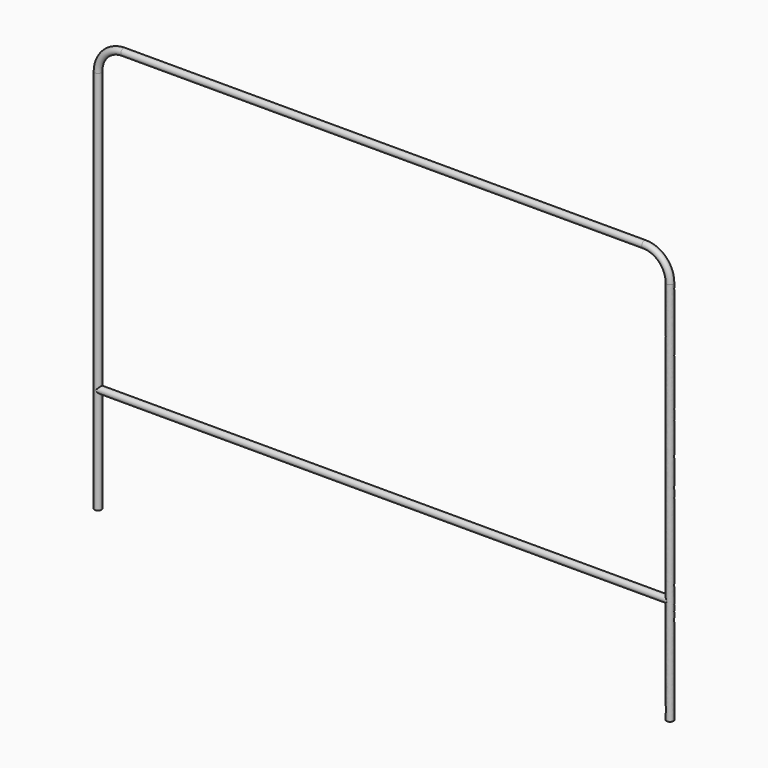
from build123d import *

# Parameters (mm, degrees)
F1_R     = 17.5
F1_R_2   = 14.5
F3_R     = 17.5
F4_DEPTH = 1482.5


with BuildPart() as f2:
    # F2: sweep along a path in F0
    with BuildLine(Plane.XZ) as f2_path:
        Line((-1482.5, 0), (-1482.5, 1995))
        ThreePointArc((-1482.5, 1995), (-1443.691649, 2088.691649), (-1350, 2127.5))
        Line((-1350, 2127.5), (0, 2127.5))
        Line((0, 2127.5), (1350, 2127.5))
        ThreePointArc((1350, 2127.5), (1443.691649, 2088.691649), (1482.5, 1995))
        Line((1482.5, 1995), (1482.5, 0))
    # F1 (on Top) → F2 (sweep)
    with BuildSketch(Plane.XY):
        with Locations((-1482.5, 0)):
            Circle(F1_R)
        with Locations((-1482.5, 0)):
            Circle(F1_R_2, mode=Mode.SUBTRACT)
    sweep(path=f2_path.line)

    # F3 (on Right) → F4 (join, symmetric)
    with BuildSketch(Plane.YZ):
        with Locations((0, 547.5)):
            Circle(F3_R)
    extrude(amount=F4_DEPTH, both=True)


solid = f2.part
